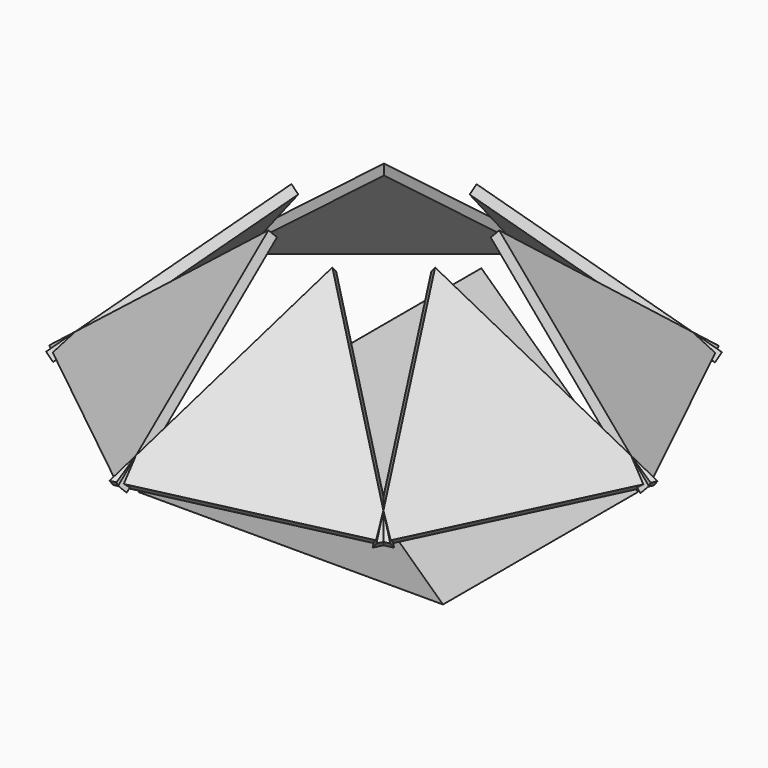
from build123d import *

# Parameters (mm, degrees)
F1_DEPTH = 25
F4_DEPTH = 2
F5_COUNT = 7


with BuildPart() as f1:
    # F0 (on Front) → F1 (new body, symmetric)
    with BuildSketch(Plane.XZ):
        Polygon((0, 15), (-30.3652840712, -15), (32.1347154424, -15), align=None)
    extrude(amount=F1_DEPTH, both=True)


with BuildPart() as f4:
    # F3 (on offset) → F4 (new body)
    with BuildSketch(Plane(origin=(-25.0698270008, 0, 25.3750806165), x_dir=(0.7113726211, 0, 0.7028150496), z_dir=(-0.7028150496, 0, 0.7113726211))):
        Polygon((10.5422257446, 0), (-32.1432574637, 25), (-32.1432574637, -25), align=None)
    extrude(amount=F4_DEPTH)


with BuildPart() as f5_1:
    # F5: instance of F4
    add(f4.part.rotate(Axis((0, 0, 27.5364816189), (0, 0, 1)), 1 * 360 / F5_COUNT))


with BuildPart() as f5_2:
    # F5: instance of F4
    add(f4.part.rotate(Axis((0, 0, 27.5364816189), (0, 0, 1)), 2 * 360 / F5_COUNT))


with BuildPart() as f5_3:
    # F5: instance of F4
    add(f4.part.rotate(Axis((0, 0, 27.5364816189), (0, 0, 1)), 3 * 360 / F5_COUNT))


with BuildPart() as f5_4:
    # F5: instance of F4
    add(f4.part.rotate(Axis((0, 0, 27.5364816189), (0, 0, 1)), 4 * 360 / F5_COUNT))


with BuildPart() as f5_5:
    # F5: instance of F4
    add(f4.part.rotate(Axis((0, 0, 27.5364816189), (0, 0, 1)), 5 * 360 / F5_COUNT))


with BuildPart() as f5_6:
    # F5: instance of F4
    add(f4.part.rotate(Axis((0, 0, 27.5364816189), (0, 0, 1)), 6 * 360 / F5_COUNT))


solid = Compound([f1.part, f4.part, f5_1.part, f5_2.part, f5_3.part, f5_4.part, f5_5.part, f5_6.part])
